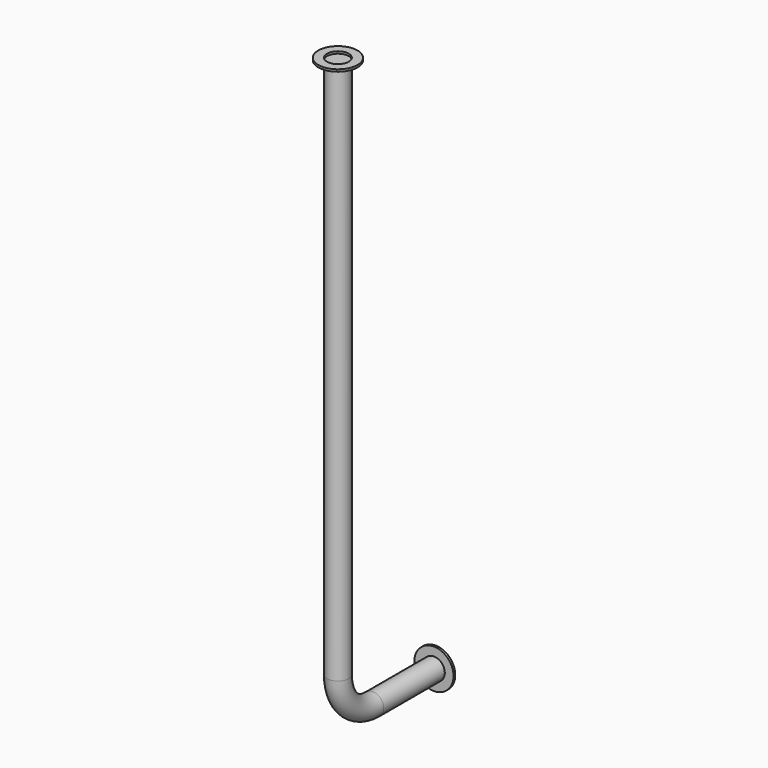
from build123d import *

# Parameters (mm, degrees)
F0_R     = 50
F3_R     = 90
F3_R_2   = 50
F4_DEPTH = 10
F5_R     = 90
F5_R_2   = 50
F6_DEPTH = 10


with BuildPart() as f2:
    # F2: sweep along a path in F1
    with BuildLine(Plane.YZ) as f2_path:
        Line((0, 0), (-350, 0))
        ThreePointArc((-350, 0), (-491.4213562373, 58.5786437627), (-550, 200))
        Line((-550, 200), (-550, 2680))
    # F0 (on Front) → F2 (sweep)
    with BuildSketch(Plane.XZ):
        Circle(F0_R)
    sweep(path=f2_path.line)


with BuildPart() as f4:
    # F3 (on face) → F4 (new body)
    with BuildSketch(Plane(origin=(0, 0, 0), x_dir=(-1, 0, 0), z_dir=(0, 1, 0))):
        Circle(F3_R)
        Circle(F3_R_2, mode=Mode.SUBTRACT)
    extrude(amount=F4_DEPTH)


with BuildPart() as f6:
    # F5 (on face) → F6 (new body)
    with BuildSketch(Plane.XY.offset(2680)):
        with Locations((0, -550)):
            Circle(F5_R)
        with Locations((0, -550)):
            Circle(F5_R_2, mode=Mode.SUBTRACT)
    extrude(amount=F6_DEPTH)


solid = Compound([f2.part, f4.part, f6.part])
